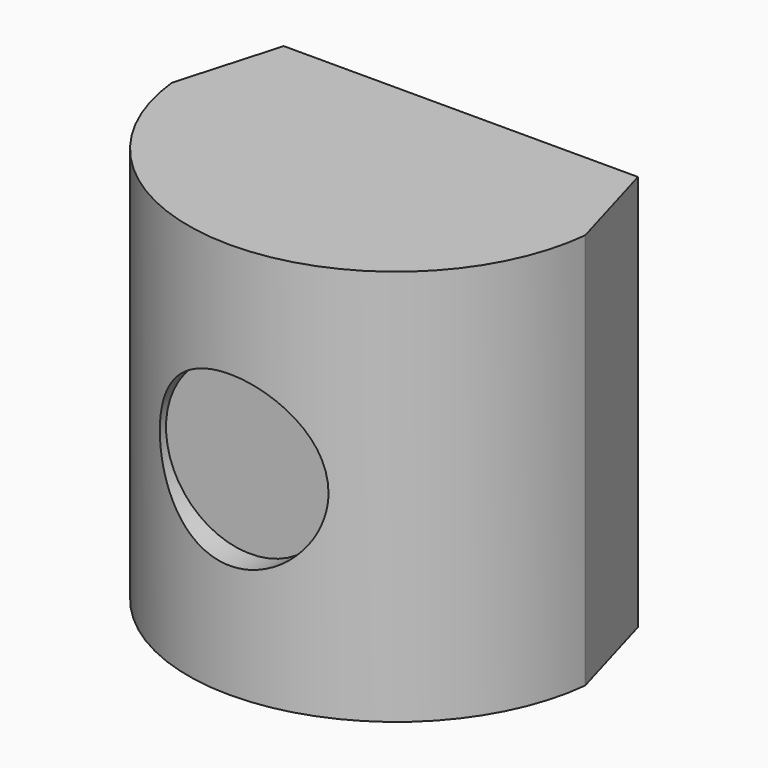
from build123d import *

# Parameters (mm, degrees)
CYLINDER039_R     = 1
CYLINDER039_DEPTH = 1
EXTRUDE010_DEPTH  = 4.7


with BuildPart() as cylinder039:
    # Cylinder039 → Cylinder039 (new body)
    with BuildSketch(Plane(origin=(0, -1.9, 2.35), x_dir=(1, 0, 0), z_dir=(0, -1, 0))):
        Circle(CYLINDER039_R)
    extrude(amount=CYLINDER039_DEPTH)


with BuildPart() as obj1:
    # Sketch027 → Extrude010 (new body)
    with BuildSketch(Plane.XY):
        with BuildLine():
            Line((-2.1, 1.22), (2.1, 1.22))
            Line((2.1, 1.22), (2.45, 0))
            ThreePointArc((-2.45, 0), (0, -2.203757), (2.45, 0))
            Line((-2.1, 1.22), (-2.45, 0))
        make_face()
    extrude(amount=EXTRUDE010_DEPTH)

    # Cut007: cut Cylinder039
    add(cylinder039.part, mode=Mode.SUBTRACT)


with BuildPart() as obj1_1:
    # Cut007 placement: moved
    add(obj1.part.moved(Location((0, 0, 2.1))))


solid = obj1_1.part
